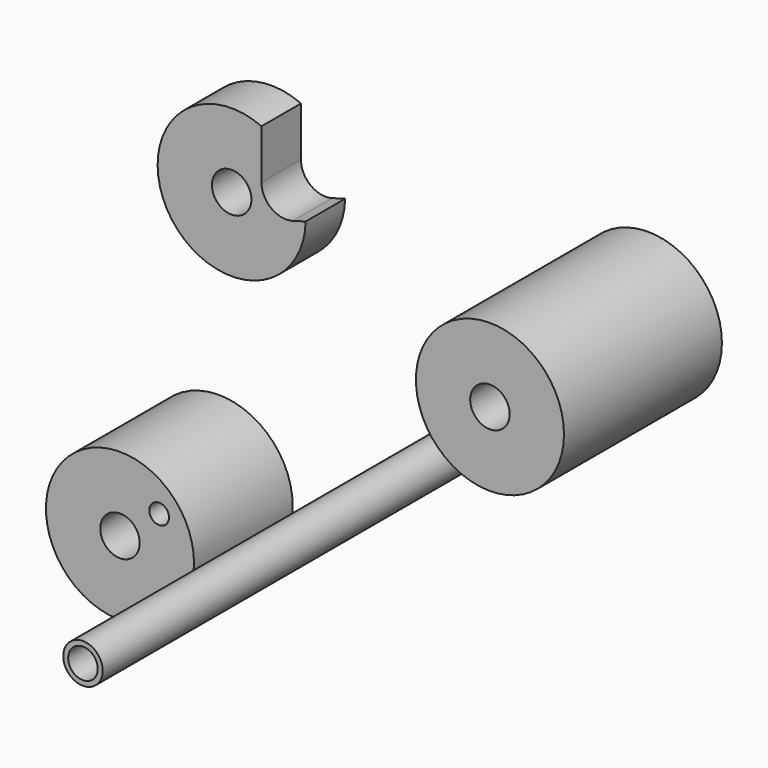
from build123d import *

# Parameters (mm, degrees)
F0_R     = 4
F0_R_2   = 3
F1_DEPTH = 100
F2_R     = 15
F2_R_2   = 4
F3_DEPTH = 40
F4_R     = 4
F5_DEPTH = 10
F6_R     = 15
F6_R_2   = 4
F6_R_3   = 2
F7_DEPTH = 25


with BuildPart() as f1:
    # F0 (on Front) → F1 (new body)
    with BuildSketch(Plane.XZ):
        Circle(F0_R)
        Circle(F0_R_2, mode=Mode.SUBTRACT)
    extrude(amount=F1_DEPTH)


with BuildPart() as f3:
    # F2 (on Front) → F3 (new body)
    with BuildSketch(Plane.XZ):
        with Locations((34.458764, 32.564435)):
            Circle(F2_R)
        with Locations((34.458764, 32.564435)):
            Circle(F2_R_2, mode=Mode.SUBTRACT)
    extrude(amount=F3_DEPTH)


with BuildPart() as f5:
    # F4 (on Front) → F5 (new body)
    with BuildSketch(Plane.XZ):
        with BuildLine():
            Line((-35.831102, 37.571837), (-35.831102, 47.570273))
            ThreePointArc((-35.831102, 47.570273), (-54.525651, 25.78533), (-26.875812, 33.502605))
            Line((-26.875812, 33.502605), (-29.45618, 32.764593))
            ThreePointArc((-29.45618, 32.764593), (-33.841533, 33.579681), (-35.831102, 37.571837))
        make_face()
        with Locations((-41.872007, 33.840471)):
            Circle(F4_R, mode=Mode.SUBTRACT)
    extrude(amount=F5_DEPTH)


with BuildPart() as f7:
    # F6 (on Front) → F7 (new body)
    with BuildSketch(Plane.XZ):
        with Locations((-52.499991, -24.806706)):
            Circle(F6_R)
        with Locations((-52.499991, -24.806706)):
            Circle(F6_R_2, mode=Mode.SUBTRACT)
        with Locations((-44.561859, -18.311856)):
            Circle(F6_R_3, mode=Mode.SUBTRACT)
    extrude(amount=F7_DEPTH)


solid = Compound([f1.part, f3.part, f5.part, f7.part])
